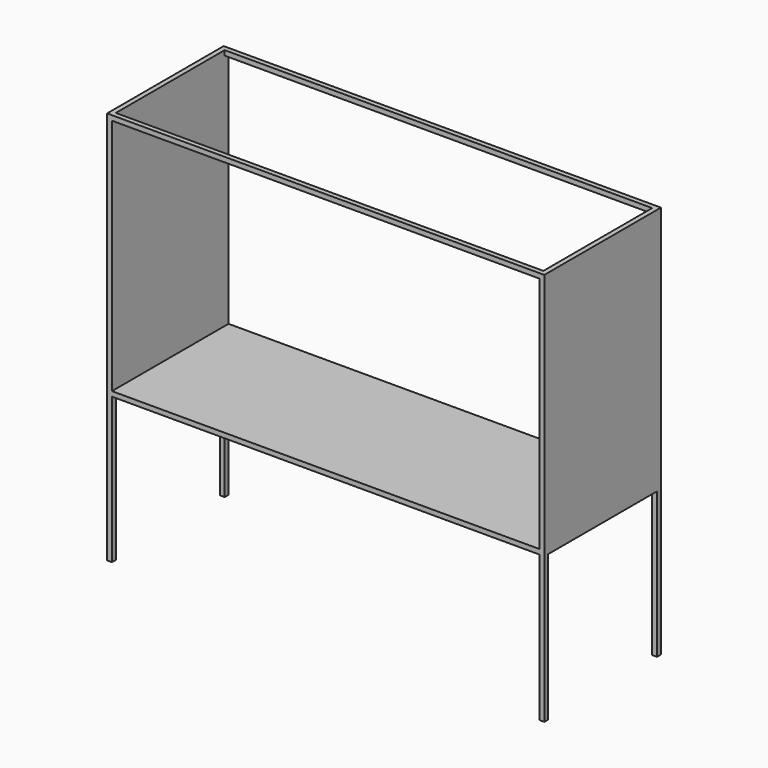
from build123d import *

# Parameters (mm, degrees)
F0_W      = 2743.2
F0_H      = 914.4
F1_DEPTH  = 30.48
F2_W      = 2743.2
F2_H      = 914.4
F3_DEPTH  = 1524
F4_W      = 2682.24
F4_H      = 853.44
F5_DEPTH  = 1554.48
F6_W      = 2682.24
F6_H      = 1493.52
F7_DEPTH  = 914.4
F8_W      = 2682.24
F8_H      = 30.48
F9_DEPTH  = 853.44
F10_W     = 30.48
F10_H     = 30.48
F11_DEPTH = 914.4


with BuildPart() as f1:
    # F0 (on Top) → F1 (new body)
    with BuildSketch(Plane.XY):
        with Locations((1371.6, 457.2)):
            Rectangle(F0_W, F0_H)
    extrude(amount=F1_DEPTH)

    # F2 (on face) → F3 (join)
    with BuildSketch(Plane.XY.offset(30.48)):
        with Locations((1371.6, 457.2)):
            Rectangle(F2_W, F2_H)
    extrude(amount=F3_DEPTH)

    # F4 (on face) → F5 (cut, through all)
    with BuildSketch(Plane.XY.offset(1554.48)):
        with Locations((1371.6, 457.2)):
            Rectangle(F4_W, F4_H)
    extrude(amount=-F5_DEPTH, mode=Mode.SUBTRACT)

    # F6 (on face) → F7 (cut)
    with BuildSketch(Plane.XZ):
        with Locations((1371.6, 777.24)):
            Rectangle(F6_W, F6_H)
    extrude(amount=-F7_DEPTH, mode=Mode.SUBTRACT)

    # F8 (on face) → F9 (join, through all)
    with BuildSketch(Plane.XZ.offset(-883.92)):
        with Locations((1371.6, 15.24)):
            Rectangle(F8_W, F8_H)
    extrude(amount=F9_DEPTH)

    # F10 (on face) → F11 (join)
    with BuildSketch(Plane(origin=(0, 0, 0), x_dir=(1, 0, 0), z_dir=(0, 0, -1))):
        with Locations((15.24, -15.24)):
            Rectangle(F10_W, F10_H)
        with Locations((15.24, -899.16)):
            Rectangle(F10_W, F10_H)
        with Locations((2727.96, -15.24)):
            Rectangle(F10_W, F10_H)
        with Locations((2727.96, -899.16)):
            Rectangle(F10_W, F10_H)
    extrude(amount=F11_DEPTH)


solid = f1.part
